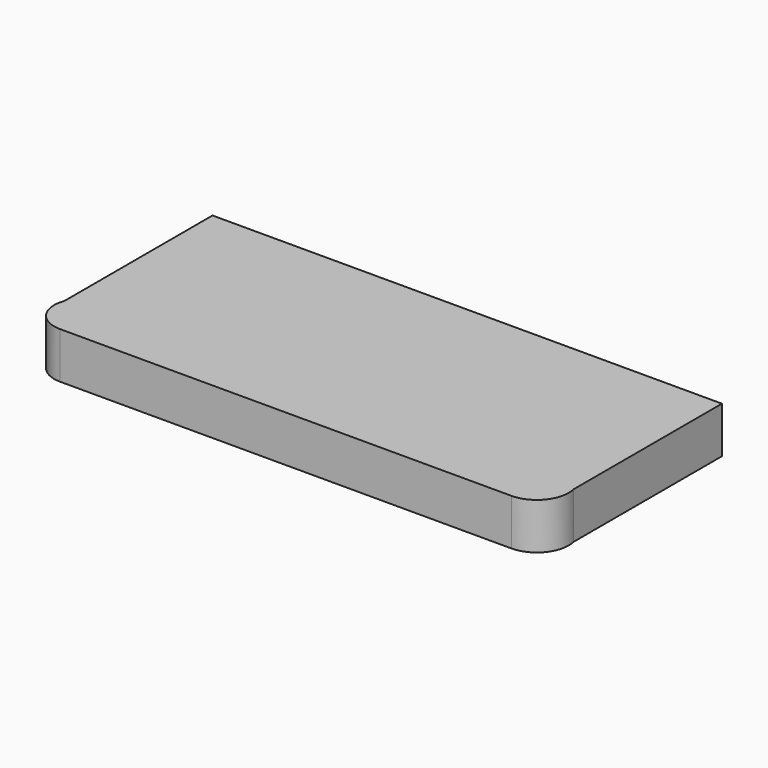
from build123d import *

# Parameters (mm, degrees)
F1_DEPTH = 12.7


with BuildPart() as f1:
    # F0 (on Top) → F1 (new body)
    with BuildSketch(Plane.XY):
        with BuildLine():
            ThreePointArc((-49.845989, -28.68264), (-48.978748, -35.995938), (-42.460967, -39.424489))
            Line((-42.460967, -39.424489), (81.35005, -39.424489))
            ThreePointArc((81.35005, -39.424489), (88.200318, -36.110541), (89.854011, -28.68264))
            Line((89.854011, -28.68264), (89.854011, 22.11736))
            Line((89.854011, 22.11736), (-49.845989, 22.11736))
            Line((-49.845989, 22.11736), (-49.845989, -28.68264))
        make_face()
    extrude(amount=F1_DEPTH)


solid = f1.part
